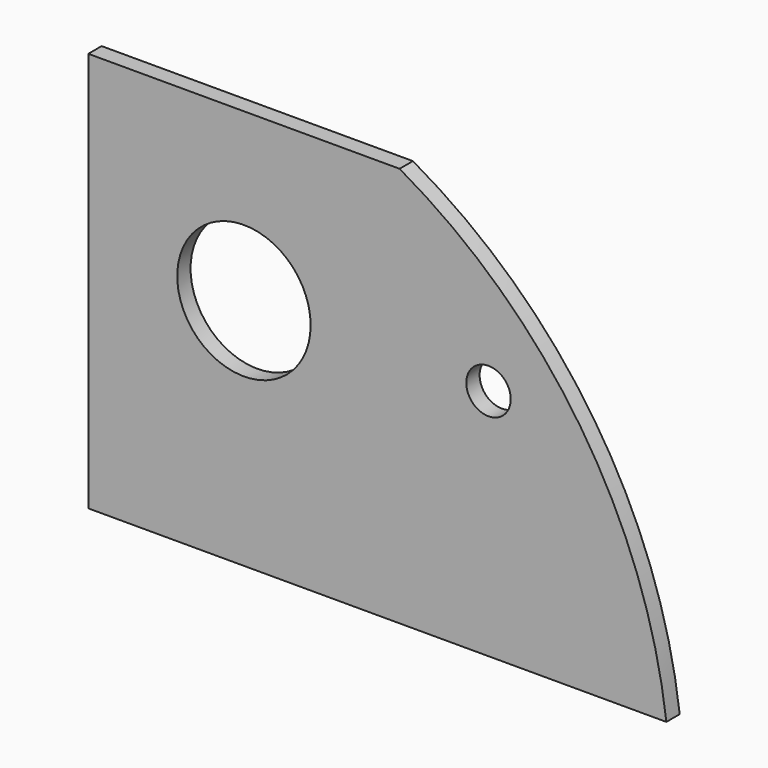
from build123d import *

# Parameters (mm, degrees)
F1_DEPTH = 4.7625
F2_R     = 19.05
F2_R_2   = 6.35
F3_DEPTH = 4.7635


with BuildPart() as f1:
    # F0 (on Front) → F1 (new body)
    with BuildSketch(Plane.XZ):
        with BuildLine():
            Line((0, 111.24605), (0, -3.05395))
            Line((0, -3.05395), (165.1, -3.05395))
            ThreePointArc((165.1, -3.05395), (140.608839, 63.168609), (88.9, 111.24605))
            Line((88.9, 111.24605), (0, 111.24605))
        make_face()
    extrude(amount=F1_DEPTH)

    # F2 (on face) → F3 (cut, through all)
    with BuildSketch(Plane.XZ.offset(4.7625)):
        with Locations((44.45, 63.62105)):
            Circle(F2_R)
        with Locations((114.3, 63.62105)):
            Circle(F2_R_2)
    extrude(amount=-F3_DEPTH, mode=Mode.SUBTRACT)


solid = f1.part
